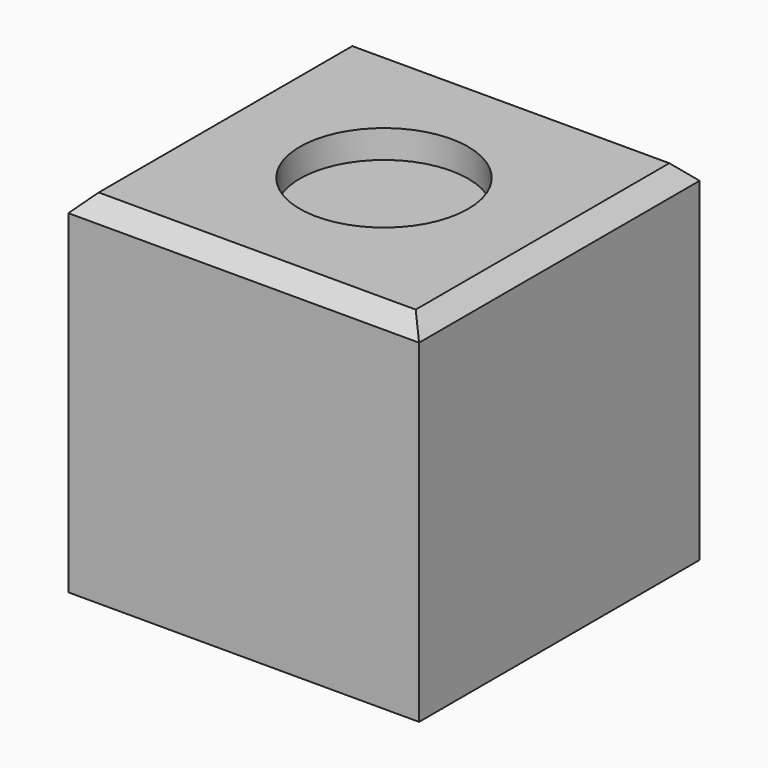
from build123d import *

# Parameters (mm, degrees)
F0_W     = 25
F0_H     = 25
F1_DEPTH = 25
F2_R     = 6
F3_DEPTH = 2
F5_DEPTH = 10
F6_SIZE  = 1.2


with BuildPart() as f1:
    # F0 (on Top) → F1 (new body)
    with BuildSketch(Plane.XY):
        Rectangle(F0_W, F0_H)
    extrude(amount=F1_DEPTH)

    # F2 (on face) → F3 (cut)
    with BuildSketch(Plane.XY.offset(25)):
        Circle(F2_R)
    extrude(amount=-F3_DEPTH, mode=Mode.SUBTRACT)

    # F4 (on face) → F5 (cut)
    with BuildSketch(Plane(origin=(0, 0, 0), x_dir=(1, 0, 0), z_dir=(0, 0, -1))):
        with BuildLine():
            ThreePointArc((0, -3.75), (-1.75, -5.5), (0, -7.25))
            Line((0, -7.25), (0, -3.75))
        make_face()
        with BuildLine():
            ThreePointArc((0, 7.25), (-1.75, 5.5), (0, 3.75))
            Line((0, 3.75), (0, 7.25))
        make_face()
        with BuildLine():
            Line((0, 7.25), (0, 3.75))
            ThreePointArc((0, 3.75), (1.237437, 4.262563), (1.75, 5.5))
            ThreePointArc((1.75, 5.5), (1.237437, 6.737437), (0, 7.25))
        make_face()
        with BuildLine():
            ThreePointArc((0, 1.5), (-1.5, 0), (0, -1.5))
            Line((0, -1.5), (0, 1.5))
        make_face()
        with BuildLine():
            Line((0, 1.5), (0, -1.5))
            ThreePointArc((0, -1.5), (1.06066, -1.06066), (1.5, 0))
            ThreePointArc((1.5, 0), (1.06066, 1.06066), (0, 1.5))
        make_face()
        with BuildLine():
            Line((0, -3.75), (0, -7.25))
            ThreePointArc((0, -7.25), (1.237437, -6.737437), (1.75, -5.5))
            ThreePointArc((1.75, -5.5), (1.237437, -4.262563), (0, -3.75))
        make_face()
    extrude(amount=-F5_DEPTH, mode=Mode.SUBTRACT)

    # F6
    f6_edges = [f1.edges().sort_by_distance(p)[0] for p in [
        (0, 12.5, 25),
        (-12.5, 0, 25),
        (0, -12.5, 25),
        (12.5, 0, 25),
    ]]
    chamfer(f6_edges, length=F6_SIZE)


solid = f1.part
